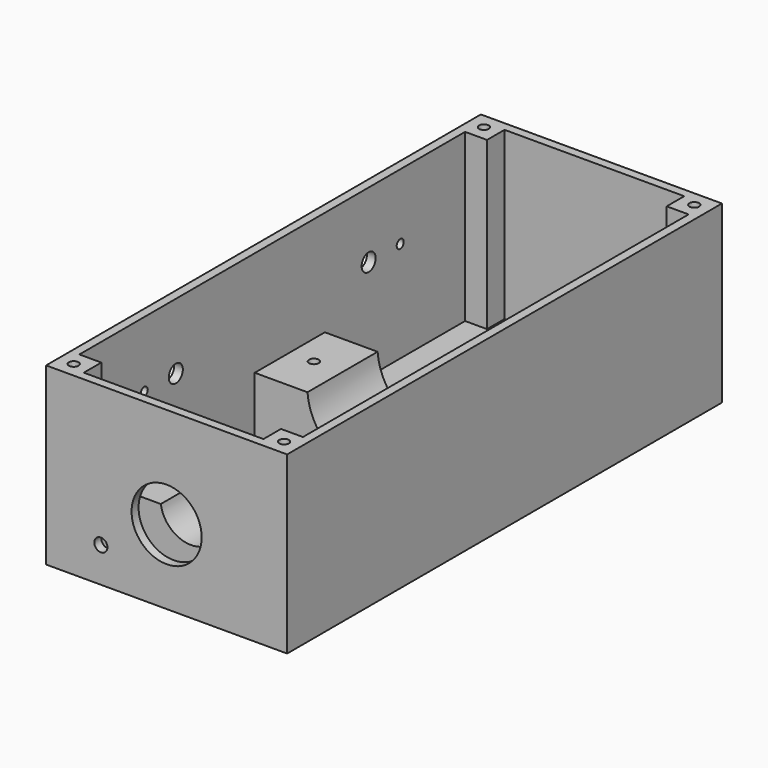
from build123d import *

# Parameters (mm, degrees)
SKETCH006_W     = 55
SKETCH006_H     = 124
PAD002_DEPTH    = 40
POCKET004_DEPTH = 38
SKETCH008_R     = 8
POCKET005_DEPTH = 2
SKETCH009_R     = 1.1
POCKET006_DEPTH = 9
SKETCH012_R     = 2
SKETCH012_R_2   = 1
POCKET008_DEPTH = 2
SKETCH013_R     = 1.5
POCKET009_DEPTH = 2
SKETCH016_W     = 10
SKETCH016_H     = 2
POCKET011_DEPTH = 0.4
SKETCH019_W     = 51
SKETCH019_H     = 20
PAD005_DEPTH    = 14
SKETCH020_R     = 13.5
POCKET014_DEPTH = 20
SKETCH021_R     = 7
POCKET015_DEPTH = 20
SKETCH022_R     = 1.1
POCKET016_DEPTH = 10


with BuildPart() as part:
    # Sketch006 → Pad002 (new body)
    with BuildSketch(Plane.XY):
        Rectangle(SKETCH006_W, SKETCH006_H)
    extrude(amount=PAD002_DEPTH)

    # Sketch007 (on Face6 of Pad002) → Pocket004 (cut)
    with BuildSketch(Plane.XY.offset(40)):
        Polygon((-25.5, 55), (-20.5, 55), (-20.5, 60), (20.5, 60), (20.5, 55), (25.5, 55), (25.5, -55), (20.5, -55), (20.5, -60), (-20.5, -60), (-20.5, -55), (-25.5, -55), align=None)
    extrude(amount=-POCKET004_DEPTH, mode=Mode.SUBTRACT)

    # Sketch008 (on Face6 of Pocket004) → Pocket005 (cut)
    with BuildSketch(Plane.XZ.offset(62)):
        with Locations((0, 17)):
            Circle(SKETCH008_R)
    extrude(amount=-POCKET005_DEPTH, mode=Mode.SUBTRACT)

    # Sketch009 (on Face5 of Pocket005) → Pocket006 (cut)
    with BuildSketch(Plane.XY.offset(40)):
        with Locations((-24, 58.5)):
            Circle(SKETCH009_R)
        with Locations((24, 58.5)):
            Circle(SKETCH009_R)
        with Locations((24, -58.5)):
            Circle(SKETCH009_R)
        with Locations((-24, -58.5)):
            Circle(SKETCH009_R)
    extrude(amount=-POCKET006_DEPTH, mode=Mode.SUBTRACT)

    # Sketch012 (on Face2 of Pocket006) → Pocket008 (cut)
    with BuildSketch(Plane(origin=(-27.5, 0, 0), x_dir=(0, -1, 0), z_dir=(-1, 0, 0))):
        with Locations((-27.5, 25)):
            Circle(SKETCH012_R)
        with Locations((27.5, 25)):
            Circle(SKETCH012_R)
        with Locations((-36.5, 25)):
            Circle(SKETCH012_R_2)
        with Locations((36.5, 25)):
            Circle(SKETCH012_R_2)
    extrude(amount=-POCKET008_DEPTH, mode=Mode.SUBTRACT)

    # Sketch013 (on Face6 of Pocket008) → Pocket009 (cut)
    with BuildSketch(Plane.XZ.offset(62)):
        with Locations((-15, 8)):
            Circle(SKETCH013_R)
    extrude(amount=-POCKET009_DEPTH, mode=Mode.SUBTRACT)

    # Sketch016 (on Face2 of Pocket009) → Pocket011 (cut)
    with BuildSketch(Plane(origin=(-27.5, 0, 0), x_dir=(0, -1, 0), z_dir=(-1, 0, 0))):
        with Locations((-25, 9)):
            Rectangle(SKETCH016_W, SKETCH016_H)
        Polygon((20, 10), (24, 10), (24, 14), (26, 14), (26, 10), (30, 10), (30, 8), (26, 8), (26, 4), (24, 4), (24, 8), (20, 8), align=None)
    extrude(amount=-POCKET011_DEPTH, mode=Mode.SUBTRACT)

    # Sketch019 (on Face50 of Pocket011) → Pad005 (join)
    with BuildSketch(Plane.XY.offset(2)):
        with Locations((0, 5)):
            Rectangle(SKETCH019_W, SKETCH019_H)
        with Locations((0, -45)):
            Rectangle(SKETCH019_W, SKETCH019_H)
    extrude(amount=PAD005_DEPTH)

    # Sketch020 (on Face53 of Pad005) → Pocket014 (cut)
    with BuildSketch(Plane.XZ.offset(5)):
        with Locations((0, 17)):
            Circle(SKETCH020_R)
    extrude(amount=-POCKET014_DEPTH, mode=Mode.SUBTRACT)

    # Sketch021 (on Face55 of Pad005) → Pocket015 (cut)
    with BuildSketch(Plane(origin=(0, -35, 0), x_dir=(-1, 0, 0), z_dir=(0, 1, 0))):
        with Locations((0, 17)):
            Circle(SKETCH021_R)
    extrude(amount=-POCKET015_DEPTH, mode=Mode.SUBTRACT)

    # Sketch022 (on Face60 of Pocket015) → Pocket016 (cut)
    with BuildSketch(Plane.XY.offset(16)):
        with Locations((-20, 5)):
            Circle(SKETCH022_R)
        with Locations((20, 5)):
            Circle(SKETCH022_R)
        with Locations((-20, -45)):
            Circle(SKETCH022_R)
        with Locations((20, -45)):
            Circle(SKETCH022_R)
    extrude(amount=-POCKET016_DEPTH, mode=Mode.SUBTRACT)


with BuildPart() as part_1:
    # Body002 placement: moved
    add(part.part.moved(Location((0, 0, -2))))


solid = part_1.part
